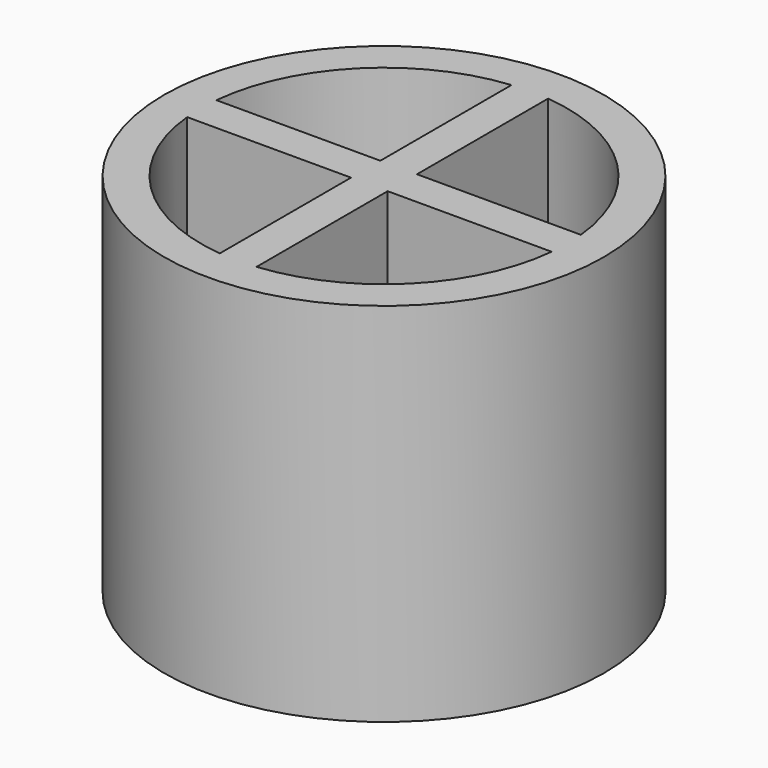
from build123d import *

# Parameters (mm, degrees)
F0_R     = 30
F1_DEPTH = 50
F3_DEPTH = 40


with BuildPart() as f1:
    # F0 (on Top) → F1 (new body)
    with BuildSketch(Plane.XY):
        Circle(F0_R)
    extrude(amount=F1_DEPTH)

    # F2 (on face) → F3 (cut)
    with BuildSketch(Plane.XY.offset(50)):
        with BuildLine():
            Line((-2.5, 2.5), (-2.5, 24.8746859277))
            ThreePointArc((-2.5, 24.8746859277), (-17.6776695297, 17.6776695297), (-24.8746859277, 2.5))
            Line((-24.8746859277, 2.5), (-2.5, 2.5))
        make_face()
        with BuildLine():
            ThreePointArc((24.8746859277, 2.5), (17.6776695297, 17.6776695297), (2.5, 24.8746859277))
            Line((2.5, 24.8746859277), (2.5, 2.5))
            Line((2.5, 2.5), (24.8746859277, 2.5))
        make_face()
        with BuildLine():
            ThreePointArc((2.5, -24.8746859277), (17.6776695297, -17.6776695297), (24.8746859277, -2.5))
            Line((24.8746859277, -2.5), (2.5, -2.5))
            Line((2.5, -2.5), (2.5, -24.8746859277))
        make_face()
        with BuildLine():
            Line((-2.5, -2.5), (-24.8746859277, -2.5))
            ThreePointArc((-24.8746859277, -2.5), (-17.6776695297, -17.6776695297), (-2.5, -24.8746859277))
            Line((-2.5, -24.8746859277), (-2.5, -2.5))
        make_face()
    extrude(amount=-F3_DEPTH, mode=Mode.SUBTRACT)


solid = f1.part
